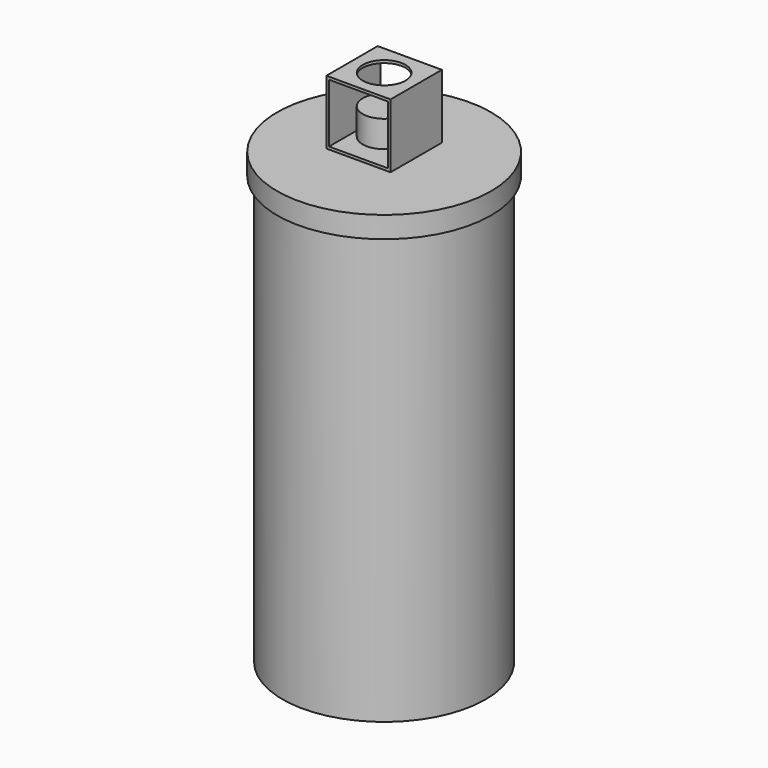
from build123d import *

# Parameters (mm, degrees)
F0_R      = 95
F1_DEPTH  = 400
F2_R      = 100
F2_R_2    = 95
F3_DEPTH  = 20
F4_W      = 20
F4_H      = 20
F5_DEPTH  = 5
F6_W      = 60
F6_H      = 60
F6_W_2    = 20
F6_H_2    = 20
F7_W      = 20
F7_H      = 20
F8_DEPTH  = 60
F10_DEPTH = 130.001
F11_R     = 20
F12_DEPTH = 25
F13_W     = 15
F13_H     = 15
F14_DEPTH = 5
F15_R     = 20
F15_W     = 15
F15_H     = 15
F16_DEPTH = 25


with BuildPart() as f1:
    # F0 (on Top) → F1 (new body)
    with BuildSketch(Plane.XY):
        Circle(F0_R)
    extrude(amount=F1_DEPTH)

    # F2 (on face) → F3 (join)
    with BuildSketch(Plane.XY.offset(400)):
        Circle(F2_R)
        Circle(F2_R_2, mode=Mode.SUBTRACT)
        Circle(F2_R_2)
    extrude(amount=F3_DEPTH)

    # F4 (on face) → F5 (join)
    with BuildSketch(Plane.XY.offset(420)):
        Rectangle(F4_W, F4_H)
    extrude(amount=F5_DEPTH)

    # F6 (on face) + F7 (on face) → F8 (join)
    with BuildSketch(Plane.XY.offset(425)):
        Rectangle(F6_W, F6_H)
        Rectangle(F6_W_2, F6_H_2, mode=Mode.SUBTRACT)
    with BuildSketch(Plane.XY.offset(425)):
        Rectangle(F7_W, F7_H)
    extrude(amount=F8_DEPTH)

    # F9 (on face) → F10 (cut, through all)
    with BuildSketch(Plane.XZ.offset(30)):
        Polygon((-27.5, 427.5), (0, 427.5), (27.5, 427.5), (27.5, 482.5), (0, 482.5), (-27.5, 482.5), align=None)
    extrude(amount=-F10_DEPTH, mode=Mode.SUBTRACT)

    # F11 (on face) → F12 (cut)
    with BuildSketch(Plane.XY.offset(485)):
        Circle(F11_R)
    extrude(amount=-F12_DEPTH, mode=Mode.SUBTRACT)

    # F13 (on face) → F14 (join)
    with BuildSketch(Plane.XY.offset(427.5)):
        Rectangle(F13_W, F13_H)
    extrude(amount=F14_DEPTH)

    # F15 (on face) → F16 (join)
    with BuildSketch(Plane.XY.offset(432.5)):
        Circle(F15_R)
        Rectangle(F15_W, F15_H, mode=Mode.SUBTRACT)
        Rectangle(F15_W, F15_H)
    extrude(amount=F16_DEPTH)


solid = f1.part
